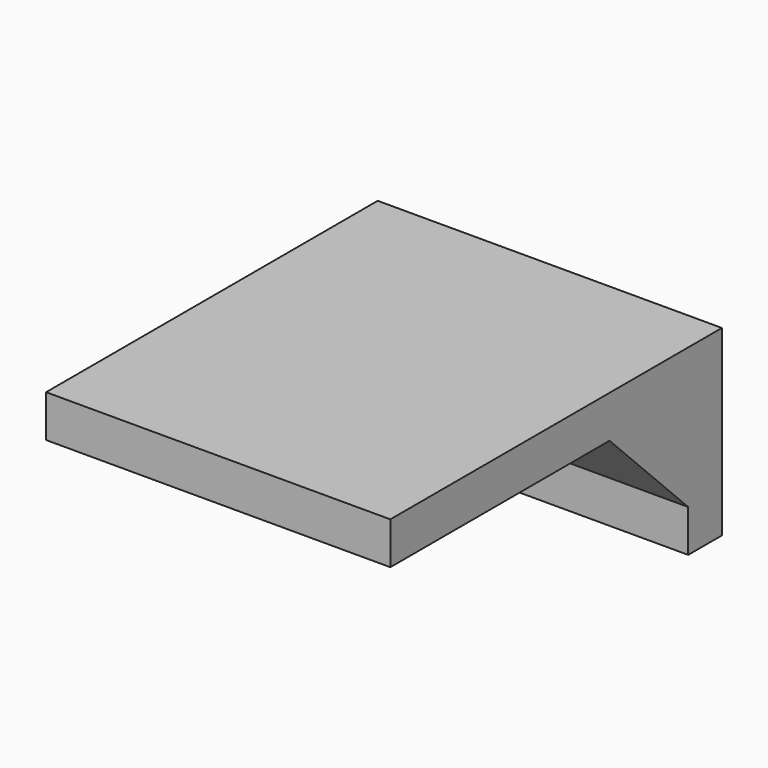
from build123d import *

# Parameters (mm, degrees)
BOX013_W        = 24.5
BOX013_H        = 3
BOX013_DEPTH    = 13
BOX014_W        = 24.5
BOX014_H        = 26.5
BOX014_DEPTH    = 3
CHAMFER013_SIZE = 7


with BuildPart() as cube013:
    # Box013 → Box013 (new body)
    with BuildSketch(Plane(origin=(-16.5, 30.5, -8), x_dir=(1, 0, 0), z_dir=(0, 0, 1))):
        with Locations((12.25, 1.5)):
            Rectangle(BOX013_W, BOX013_H)
    extrude(amount=BOX013_DEPTH)


with BuildPart() as chamfer013:
    # Box014 → Box014 (new body)
    with BuildSketch(Plane(origin=(-16.5, 4, 2), x_dir=(1, 0, 0), z_dir=(0, 0, 1))):
        with Locations((12.25, 13.25)):
            Rectangle(BOX014_W, BOX014_H)
    extrude(amount=BOX014_DEPTH)

    # Fusion002005: union Cube013
    add(cube013.part)

    # Chamfer013
    chamfer013_edges = [chamfer013.edges().sort_by_distance(p)[0] for p in [
        (-4.25, 30.5, 2),
    ]]
    chamfer(chamfer013_edges, length=CHAMFER013_SIZE)


solid = chamfer013.part
